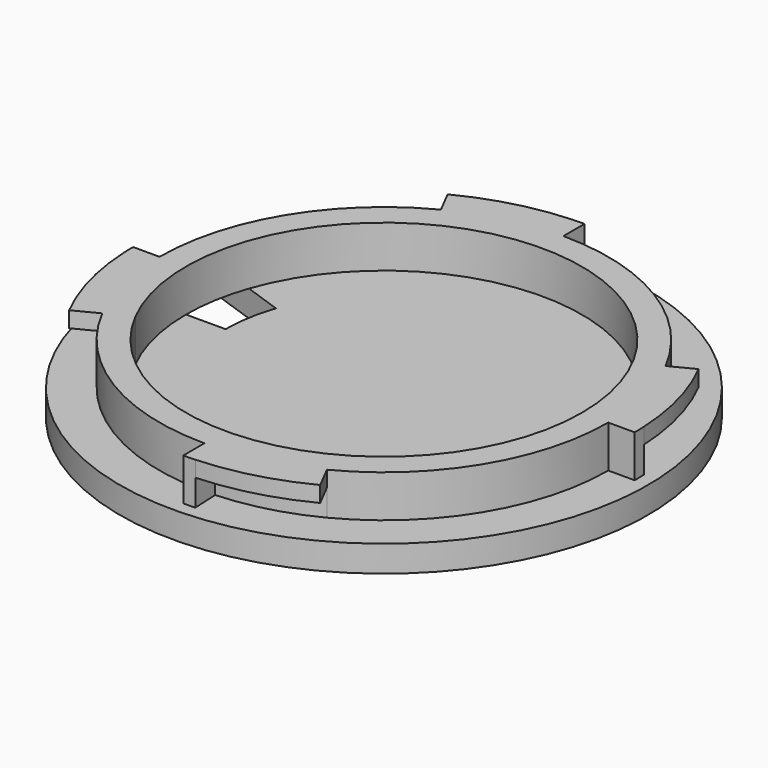
from build123d import *

# Parameters (mm, degrees)
F1_DEPTH = 8
F2_DEPTH = 8
F3_START = 5
F3_DEPTH = 3
F4_R     = 50
F5_DEPTH = 5
F7_DEPTH = 5


with BuildPart() as f1:
    # F0 (on Top) → F1 (new body)
    with BuildSketch(Plane.XY):
        with BuildLine():
            ThreePointArc((19.4384842845, -37.7941176471), (36.2793714257, -22.137235802), (42.5, 0))
            ThreePointArc((42.5, 0), (42.488227143, 1.0002770852), (42.4529150943, 2))
            ThreePointArc((42.4529150943, 2), (41.0599774657, 10.969423436), (37.7941176471, 19.4384842845))
            ThreePointArc((37.7941176471, 19.4384842845), (22.137235802, 36.2793714257), (0, 42.5))
            ThreePointArc((0, 42.5), (-1.0002770852, 42.488227143), (-2, 42.4529150943))
            ThreePointArc((-2, 42.4529150943), (-10.969423436, 41.0599774657), (-19.4384842845, 37.7941176471))
            ThreePointArc((-19.4384842845, 37.7941176471), (-36.2793714257, 22.137235802), (-42.5, 0))
            ThreePointArc((-42.5, 0), (-42.488227143, -1.0002770852), (-42.4529150943, -2))
            ThreePointArc((-42.4529150943, -2), (-41.0599774657, -10.969423436), (-37.7941176471, -19.4384842845))
            ThreePointArc((-37.7941176471, -19.4384842845), (-22.137235802, -36.2793714257), (0, -42.5))
            ThreePointArc((0, -42.5), (1.0002770852, -42.488227143), (2, -42.4529150943))
            ThreePointArc((2, -42.4529150943), (10.969423436, -41.0599774657), (19.4384842845, -37.7941176471))
        make_face()
        with BuildLine():
            ThreePointArc((37.5, 0), (8.8235294118, -36.4471580335), (-33.3477508651, -17.1516037805))
            ThreePointArc((-33.3477508651, -17.1516037805), (-8.8235294118, 36.4471580335), (37.5, 0))
        make_face(mode=Mode.SUBTRACT)
    extrude(amount=F1_DEPTH)

    # F0 (on Top) → F2 (join)
    with BuildSketch(Plane.XY):
        with BuildLine():
            ThreePointArc((-47.5, 0), (-47.486842101, -1.1179567422), (-47.4473756936, -2.2352941176))
            Line((-47.4473756936, -2.2352941176), (-42.4529150943, -2))
            ThreePointArc((-42.4529150943, -2), (-42.488227143, -1.0002770852), (-42.5, 0))
            Line((-42.5, 0), (-47.5, 0))
        make_face()
        with BuildLine():
            Line((0, 42.5), (0, 47.5))
            ThreePointArc((0, 47.5), (-1.1179567422, 47.486842101), (-2.2352941176, 47.4473756936))
            Line((-2.2352941176, 47.4473756936), (-2, 42.4529150943))
            ThreePointArc((-2, 42.4529150943), (-1.0002770852, 42.488227143), (0, 42.5))
        make_face()
        with BuildLine():
            Line((42.5, 0), (47.5, 0))
            ThreePointArc((47.5, 0), (47.486842101, 1.1179567422), (47.4473756936, 2.2352941176))
            Line((47.4473756936, 2.2352941176), (42.4529150943, 2))
            ThreePointArc((42.4529150943, 2), (42.488227143, 1.0002770852), (42.5, 0))
        make_face()
        with BuildLine():
            ThreePointArc((0, -47.5), (1.1179567422, -47.486842101), (2.2352941176, -47.4473756936))
            Line((2.2352941176, -47.4473756936), (2, -42.4529150943))
            ThreePointArc((2, -42.4529150943), (1.0002770852, -42.488227143), (0, -42.5))
            Line((0, -42.5), (0, -47.5))
        make_face()
    extrude(amount=F2_DEPTH)

    # F0 (on Top) → F3 (join)
    with BuildSketch(Plane.XY.offset(F3_START)):
        with BuildLine():
            ThreePointArc((-47.4473756936, -2.2352941176), (-45.8905630499, -12.2599438402), (-42.2404844291, -21.7253647886))
            Line((-42.2404844291, -21.7253647886), (-37.7941176471, -19.4384842845))
            ThreePointArc((-37.7941176471, -19.4384842845), (-41.0599774657, -10.969423436), (-42.4529150943, -2))
            Line((-42.4529150943, -2), (-47.4473756936, -2.2352941176))
        make_face()
        with BuildLine():
            ThreePointArc((2.2352941176, -47.4473756936), (12.2599438402, -45.8905630499), (21.7253647886, -42.2404844291))
            Line((21.7253647886, -42.2404844291), (19.4384842845, -37.7941176471))
            ThreePointArc((19.4384842845, -37.7941176471), (10.969423436, -41.0599774657), (2, -42.4529150943))
            Line((2, -42.4529150943), (2.2352941176, -47.4473756936))
        make_face()
        with BuildLine():
            Line((42.4529150943, 2), (47.4473756936, 2.2352941176))
            ThreePointArc((47.4473756936, 2.2352941176), (45.8905630499, 12.2599438402), (42.2404844291, 21.7253647886))
            Line((42.2404844291, 21.7253647886), (37.7941176471, 19.4384842845))
            ThreePointArc((37.7941176471, 19.4384842845), (41.0599774657, 10.969423436), (42.4529150943, 2))
        make_face()
        with BuildLine():
            Line((-2, 42.4529150943), (-2.2352941176, 47.4473756936))
            ThreePointArc((-2.2352941176, 47.4473756936), (-12.2599438402, 45.8905630499), (-21.7253647886, 42.2404844291))
            Line((-21.7253647886, 42.2404844291), (-19.4384842845, 37.7941176471))
            ThreePointArc((-19.4384842845, 37.7941176471), (-10.969423436, 41.0599774657), (-2, 42.4529150943))
        make_face()
    extrude(amount=F3_DEPTH)

    # F4 (on Top) → F5 (join)
    with BuildSketch(Plane.XY):
        Circle(F4_R)
    extrude(amount=-F5_DEPTH)

    # F6 (on Top) → F7 (cut)
    with BuildSketch(Plane.XY):
        with BuildLine():
            Line((-28.3333333333, 9.8601329718), (-47.2222222222, 16.4335549531))
            ThreePointArc((-47.2222222222, 16.4335549531), (-49.3006648592, 8.3333333333), (-50, 0))
            Line((-50, 0), (-30, 0))
            ThreePointArc((-30, 0), (-29.5803989155, 5), (-28.3333333333, 9.8601329718))
        make_face()
    extrude(amount=-F7_DEPTH, mode=Mode.SUBTRACT)


solid = f1.part
